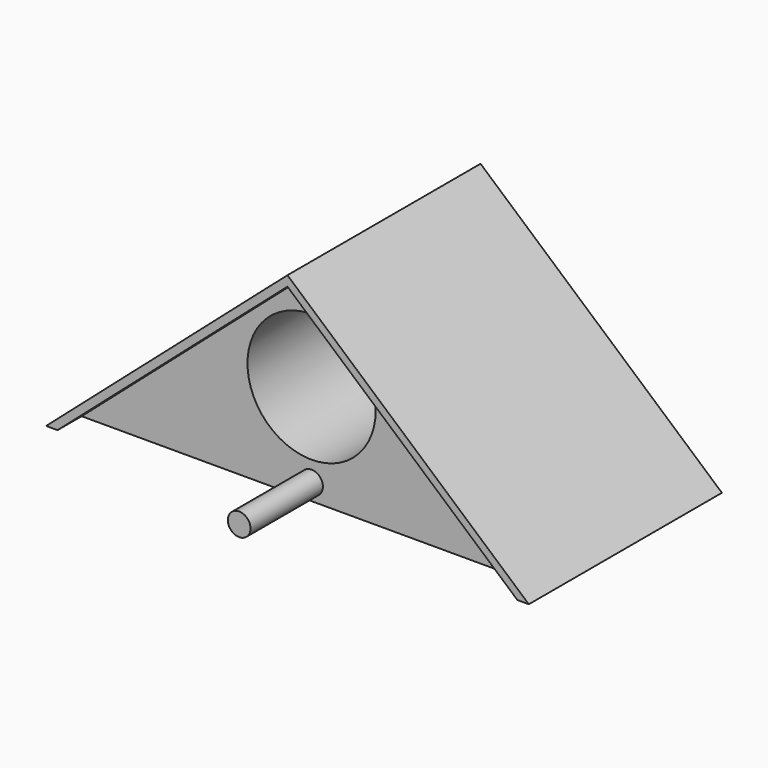
from build123d import *

# Parameters (mm, degrees)
F1_DEPTH = 203.2
F3_DEPTH = 25.4
F4_R     = 53.975
F5_DEPTH = 152.4
F4_R_2   = 9.525
F6_DEPTH = 76.2


with BuildPart() as f1:
    # F0 (on Front) → F1 (new body)
    with BuildSketch(Plane.XZ):
        Polygon((0, 177.8), (-203.2, 0), (203.2, 0), align=None)
    extrude(amount=F1_DEPTH)

    # F2 (on face) → F3 (cut)
    with BuildSketch(Plane.XZ.offset(203.2)):
        Polygon((0, 169.362322), (-193.556939, 0), (193.556939, 0), align=None)
    extrude(amount=-F3_DEPTH, mode=Mode.SUBTRACT)

    # F4 (on face) → F5 (cut)
    with BuildSketch(Plane.XZ.offset(177.8)):
        with Locations((0, 84.681161)):
            Circle(F4_R)
    extrude(amount=-F5_DEPTH, mode=Mode.SUBTRACT)

    # F4 (on face) → F6 (join)
    with BuildSketch(Plane.XZ.offset(177.8)):
        with Locations((0, 13.827616)):
            Circle(F4_R_2)
    extrude(amount=F6_DEPTH)


solid = f1.part
